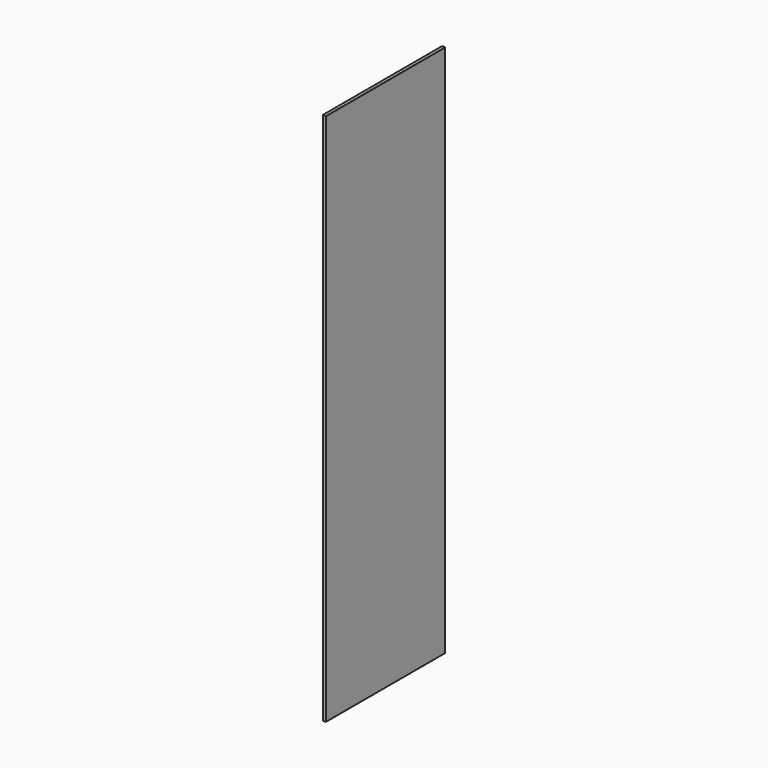
from build123d import *

# Parameters (mm, degrees)
F0_W     = 45.3829057515
F0_H     = 30.278544873
F1_DEPTH = 14
F2_DEPTH = 615
F3_DEPTH = 2200
F4_R     = 1


with BuildPart() as f1:
    # F0 (on Right) → F1 (new body)
    with BuildSketch(Plane.YZ):
        with Locations((-22.6914528757, 15.1392724365)):
            Rectangle(F0_W, F0_H)
    extrude(amount=F1_DEPTH)

    # F2 (add): a face of the model
    f2_faces = [f1.faces().sort_by_distance(p)[0] for p in [
        (7, 0, 15.1392724365),
    ]]
    extrude(f2_faces, amount=-F2_DEPTH)

    # F3 (add): a face of the model
    f3_faces = [f1.faces().sort_by_distance(p)[0] for p in [
        (7, -307.5, 0),
    ]]
    extrude(f3_faces, amount=-F3_DEPTH)

    # F4
    f4_edges = [f1.edges().sort_by_distance(p)[0] for p in [
        (0, 0, 1100),
        (0, -307.5, 2200),
        (0, -615, 1100),
        (0, -307.5, 0),
        (14, -307.5, 0),
        (14, 0, 1100),
        (14, -307.5, 2200),
        (14, -615, 1100),
    ]]
    fillet(f4_edges, radius=F4_R)


solid = f1.part
